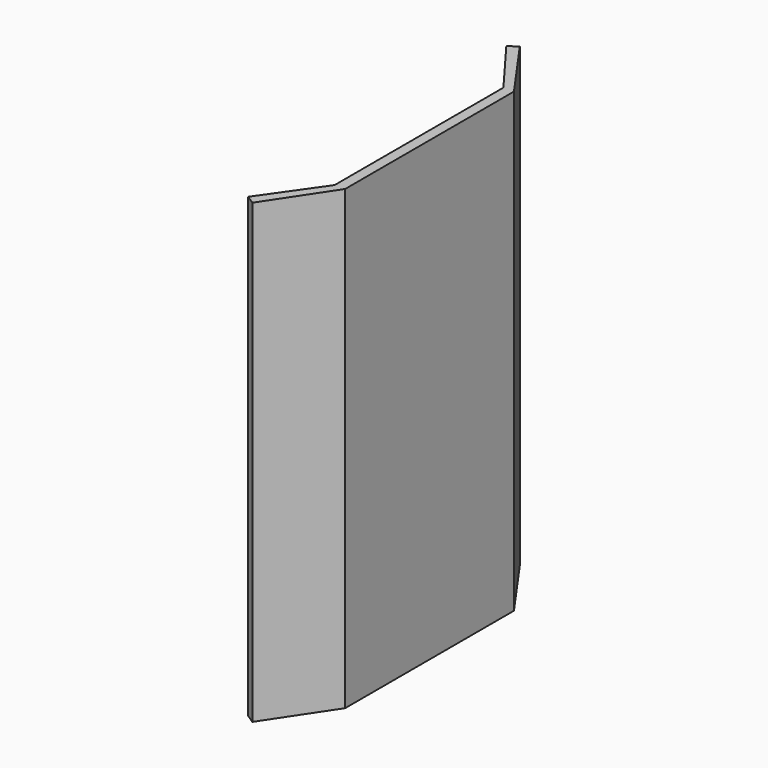
from build123d import *

# Parameters (mm, degrees)
F0_W     = 30
F0_H     = 600
F1_DEPTH = 1300


with BuildPart() as f1:
    # F0 (on Top) → F1 (new body)
    with BuildSketch(Plane.XY):
        with Locations((-14.494546, -122.679873)):
            Rectangle(F0_W, F0_H)
        Polygon((-29.494546, 177.320127), (0.505454, 177.320127), (-124.828876, 354.750561), (-149.332099, 337.441833), align=None)
        Polygon((-119.177751, -603.115286), (0.505454, -422.679873), (-29.494546, -422.679873), (-144.178013, -586.532557), align=None)
    extrude(amount=F1_DEPTH)


solid = f1.part
